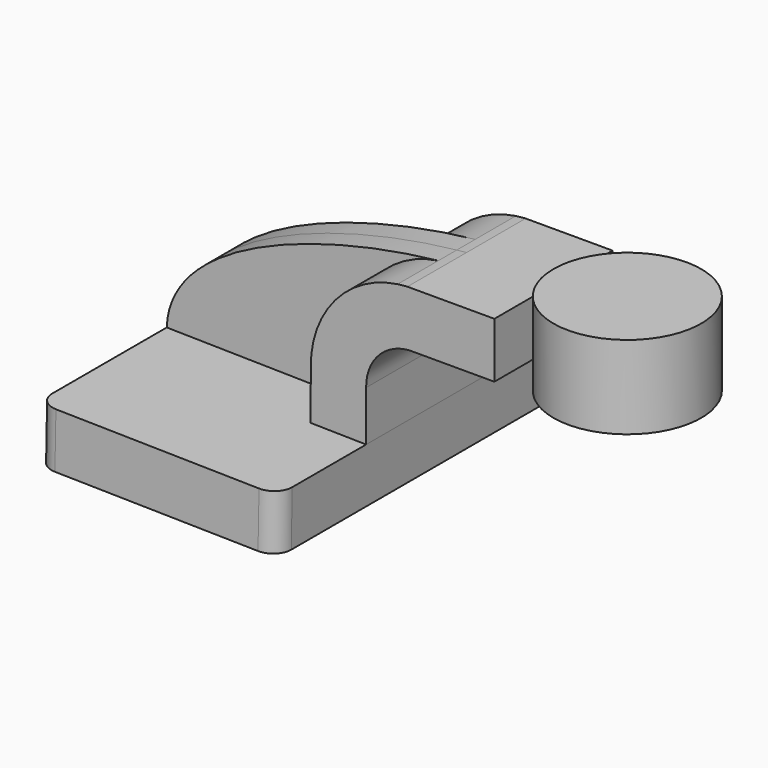
from build123d import *

# Parameters (mm, degrees)
F1_DEPTH = 63.5
F0_W     = 25.4
F0_H     = 19.05
F2_DEPTH = 25.4
F3_DEPTH = 7.9375
F5_R     = 6.35


with BuildPart() as f1:
    # F0 (on Front) → F1 (new body, symmetric)
    with BuildSketch(Plane.XZ):
        Polygon((-41.4413325772, -8.7730954759), (41.0950261768, -10.2737565442), (41.4413325772, 8.7730954759), (22.3917926016, 9.1194507482), (-41.0950261768, 10.2737565442), align=None)
    extrude(amount=F1_DEPTH, both=True)

    # F0 (on Front) → F2 (join, symmetric)
    with BuildSketch(Plane.XZ):
        with Locations((72.8450261768, 51.6514434558)):
            Rectangle(F0_W, F0_H)
        with BuildLine():
            Line((22.3917926016, 9.1194507482), (41.4413325772, 8.7730954759))
            Line((41.4413325772, 8.7730954759), (41.4548975004, 26.0220651349))
            ThreePointArc((41.4548975004, 26.0220651349), (45.6161013981, 37.0092284112), (56.1918985276, 42.1264434558))
            Line((56.1918985276, 42.1264434558), (60.1450261768, 42.1264434558))
            Line((60.1450261768, 42.1264434558), (60.1450261768, 61.1764434558))
            Line((60.1450261768, 61.1764434558), (55.6424930992, 61.1764434558))
            add(Edge.make_bspline(
                [(52.2903132823, 60.8519427515), (53.4233481984, 60.971333396), (54.5413711132, 61.0794900705), (55.6424930992, 61.1764434558)],
                knots=[106.1306028358, 106.1306028358, 106.1306028358, 106.1306028358, 109.3125389445, 109.3125389445, 109.3125389445, 109.3125389445], degree=3))
            ThreePointArc((52.2903132823, 60.8519427515), (30.7832414406, 48.9890939254), (22.4047960117, 25.9005042398))
            Line((22.4047960117, 25.9005042398), (22.3917926016, 9.3655468447))
            Line((22.3917926016, 9.3655468447), (22.3917926016, 9.1194507482))
        make_face()
    extrude(amount=F2_DEPTH, both=True)

    # F0 (on Front) → F3 (join, symmetric)
    with BuildSketch(Plane.XZ):
        with BuildLine():
            add(Edge.make_bspline(
                [(-41.0950261768, 10.2737565442), (-39.9931851402, 40.3898650296), (14.4989577746, 56.8697757186), (52.2903132823, 60.8519427515)],
                knots=[0, 0, 0, 0, 106.1306028358, 106.1306028358, 106.1306028358, 106.1306028358], degree=3))
            Line((-41.0950261768, 10.2737565442), (22.3917926016, 9.1194507482))
            Line((22.3917926016, 9.1194507482), (22.3917926016, 9.3655468447))
            Line((22.3917926016, 9.3655468447), (22.4047960117, 25.9005042398))
            ThreePointArc((22.4047960117, 25.9005042398), (30.7832414406, 48.9890939254), (52.2903132823, 60.8519427515))
        make_face()
    extrude(amount=F3_DEPTH, both=True)

    # F0 (on Front) → F4 (revolve)
    with BuildSketch(Plane.XZ):
        Polygon((85.5450261768, 61.1764434558), (85.5450261768, 42.1264434558), (85.5450261768, 37.3512434558), (110.9450261768, 37.3512434558), (110.9450261768, 65.9262434558), (85.5450261768, 65.9262434558), align=None)
    revolve(axis=Axis((110.9450261768, 0, 51.6387434558), (0, 0, 1)))

    # F5
    f5_edges = [f1.edges().sort_by_distance(p)[0] for p in [
        (41.268179, -63.5, -0.750331),
        (-41.268179, -63.5, 0.750331),
        (41.268179, 63.5, -0.750331),
    ]]
    fillet(f5_edges, radius=F5_R)


solid = f1.part
